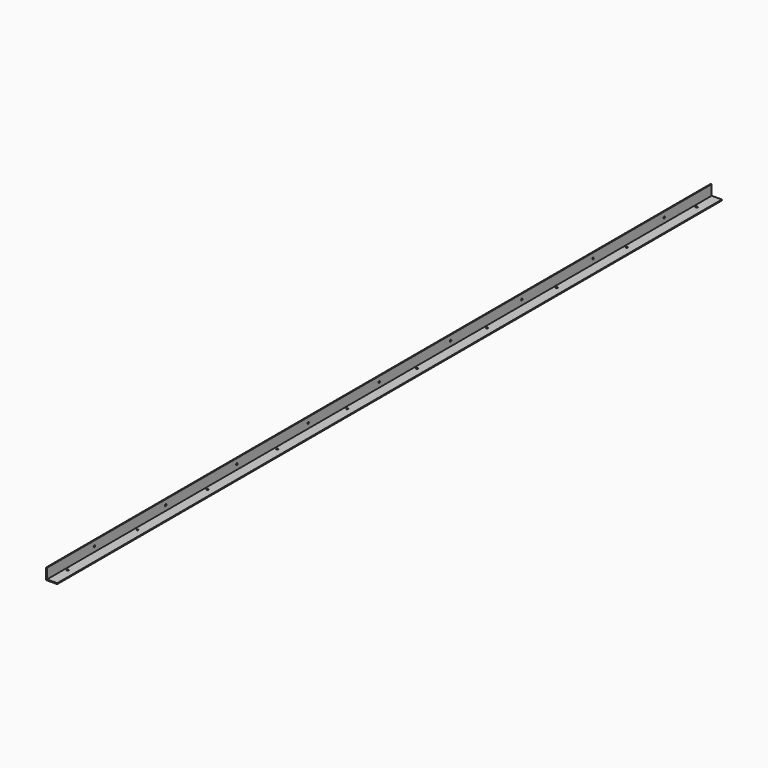
from build123d import *

# Parameters (mm, degrees)
F1_DEPTH = 2844.8
F2_R     = 3.175
F4_DEPTH = 25.4
F3_R     = 3.175
F5_DEPTH = 25.4


with BuildPart() as f1:
    # F0 (on Front) → F1 (new body)
    with BuildSketch(Plane.XZ):
        Polygon((0, 38.1), (0, 0), (38.1, 0), (38.1, 3.175), (3.175, 3.175), (3.175, 38.1), align=None)
    extrude(amount=-F1_DEPTH)

    # F2 (on Top) → F4 (cut)
    with BuildSketch(Plane.XY):
        with Locations((12.7, 76.2)):
            Circle(F2_R)
        with Locations((12.7, 375.355556)):
            Circle(F2_R)
        with Locations((12.7, 674.511111)):
            Circle(F2_R)
        with Locations((12.7, 973.666667)):
            Circle(F2_R)
        with Locations((12.7, 1272.822222)):
            Circle(F2_R)
        with Locations((12.7, 1571.977778)):
            Circle(F2_R)
        with Locations((12.7, 1871.133333)):
            Circle(F2_R)
        with Locations((12.7, 2170.288889)):
            Circle(F2_R)
        with Locations((12.7, 2469.444444)):
            Circle(F2_R)
        with Locations((12.7, 2768.6)):
            Circle(F2_R)
    extrude(amount=F4_DEPTH, mode=Mode.SUBTRACT)

    # F3 (on Right) → F5 (cut)
    with BuildSketch(Plane.YZ):
        with Locations((203.2, 20.305524)):
            Circle(F3_R)
        with Locations((508, 20.305524)):
            Circle(F3_R)
        with Locations((812.8, 20.305524)):
            Circle(F3_R)
        with Locations((1117.6, 20.305524)):
            Circle(F3_R)
        with Locations((1422.4, 20.305524)):
            Circle(F3_R)
        with Locations((1727.2, 20.305524)):
            Circle(F3_R)
        with Locations((2032, 20.305524)):
            Circle(F3_R)
        with Locations((2336.8, 20.305524)):
            Circle(F3_R)
        with Locations((2641.6, 20.305524)):
            Circle(F3_R)
    extrude(amount=F5_DEPTH, mode=Mode.SUBTRACT)


solid = f1.part
